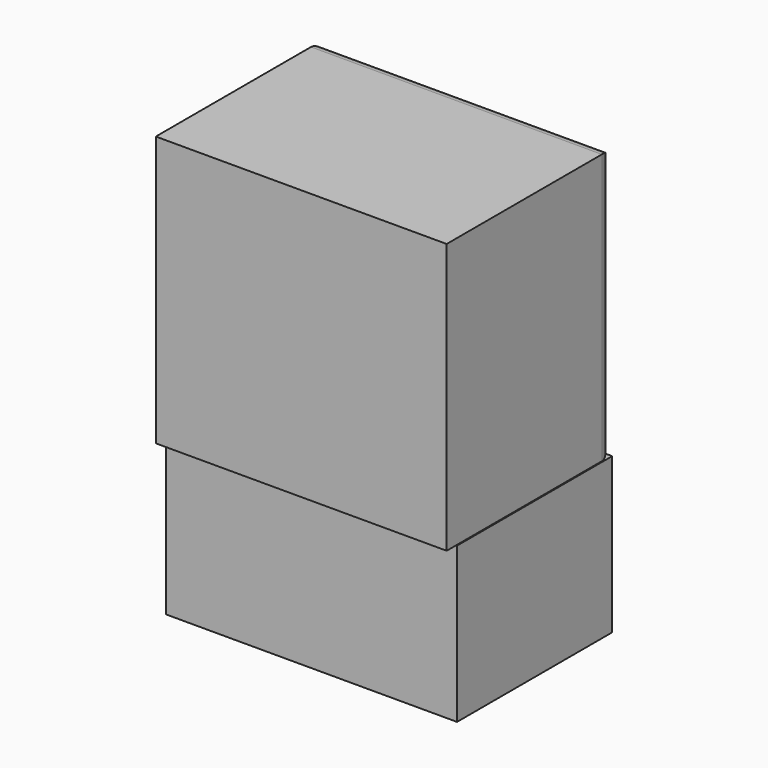
from build123d import *

# Parameters (mm, degrees)
F0_W     = 57.15
F0_H     = 30.48
F1_DEPTH = 38.1
F2_W     = 57.137854
F2_H     = 53.056581
F3_DEPTH = 40.64
F4_R     = 2.54
F5_W     = 2.380744
F5_H     = 6.80212
F6_DEPTH = 0.508


with BuildPart() as f1:
    # F0 (on Front) → F1 (new body)
    with BuildSketch(Plane.XZ):
        Rectangle(F0_W, F0_H)
    extrude(amount=F1_DEPTH)


with BuildPart() as f3:
    # F2 (on Front) → F3 (new body)
    with BuildSketch(Plane.XZ):
        with Locations((0, 41.918099)):
            Rectangle(F2_W, F2_H)
    extrude(amount=F3_DEPTH)

    # F4
    f4_edges = [f3.edges().sort_by_distance(p)[0] for p in [
        (0, 0, 15.389809),
        (28.568927, 0, 41.9181),
        (0, 0, 68.44639),
        (-28.568927, 0, 41.9181),
    ]]
    fillet(f4_edges, radius=F4_R)

    # F5 (on face) → F6 (join)
    with BuildSketch(Plane(origin=(0, 0, 0), x_dir=(-1, 0, 0), z_dir=(0, 1, 0))):
        with Locations((23.29728, 41.577991)):
            Rectangle(F5_W, F5_H)
    extrude(amount=F6_DEPTH)


solid = Compound([f1.part, f3.part])
